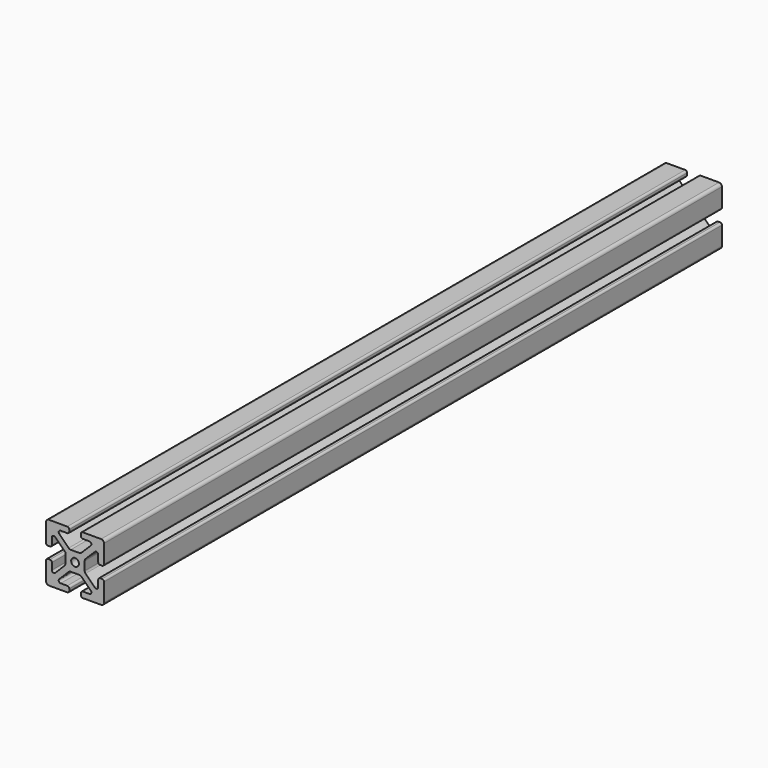
from build123d import *

# Parameters (mm, degrees)
F0_R     = 2
F1_DEPTH = 400


with BuildPart() as f1:
    # F0 (on Front) → F1 (new body)
    with BuildSketch(Plane.XZ):
        with BuildLine():
            ThreePointArc((15, 13.5), (14.56066, 14.56066), (13.5, 15))
            Line((13.5, 15), (4, 15))
            ThreePointArc((4, 15), (3.292893, 14.707107), (3, 14))
            Line((3, 14), (3, 13))
            ThreePointArc((3, 13), (3.292893, 12.292893), (4, 12))
            Line((4, 12), (7.464466, 12))
            ThreePointArc((7.464466, 12), (8.388346, 11.382683), (8.171573, 10.292893))
            Line((8.171573, 10.292893), (3.318019, 5.43934))
            ThreePointArc((3.318019, 5.43934), (2.831384, 5.114181), (2.257359, 5))
            Line((2.257359, 5), (-2.257359, 5))
            ThreePointArc((-2.257359, 5), (-2.831384, 5.114181), (-3.318019, 5.43934))
            Line((-3.318019, 5.43934), (-8.171573, 10.292893))
            ThreePointArc((-8.171573, 10.292893), (-8.388346, 11.382683), (-7.464466, 12))
            Line((-7.464466, 12), (-4, 12))
            ThreePointArc((-4, 12), (-3.292893, 12.292893), (-3, 13))
            Line((-3, 13), (-3, 14))
            ThreePointArc((-3, 14), (-3.292893, 14.707107), (-4, 15))
            Line((-4, 15), (-13.5, 15))
            ThreePointArc((-13.5, 15), (-14.56066, 14.56066), (-15, 13.5))
            Line((-15, 13.5), (-15, 4))
            ThreePointArc((-15, 4), (-14.707107, 3.292893), (-14, 3))
            Line((-14, 3), (-13, 3))
            ThreePointArc((-13, 3), (-12.292893, 3.292893), (-12, 4))
            Line((-12, 4), (-12, 7.464466))
            ThreePointArc((-12, 7.464466), (-11.382683, 8.388346), (-10.292893, 8.171573))
            Line((-10.292893, 8.171573), (-5, 2.87868))
            Line((-5, 2.87868), (-5, -2.257359))
            ThreePointArc((-5, -2.257359), (-5.114181, -2.831384), (-5.43934, -3.318019))
            Line((-5.43934, -3.318019), (-10.292893, -8.171573))
            ThreePointArc((-10.292893, -8.171573), (-11.382683, -8.388346), (-12, -7.464466))
            Line((-12, -7.464466), (-12, -4))
            ThreePointArc((-12, -4), (-12.292893, -3.292893), (-13, -3))
            Line((-13, -3), (-14, -3))
            ThreePointArc((-14, -3), (-14.707107, -3.292893), (-15, -4))
            Line((-15, -4), (-15, -13.5))
            ThreePointArc((-15, -13.5), (-14.56066, -14.56066), (-13.5, -15))
            Line((-13.5, -15), (-4, -15))
            ThreePointArc((-4, -15), (-3.292893, -14.707107), (-3, -14))
            Line((-3, -14), (-3, -13))
            ThreePointArc((-3, -13), (-3.292893, -12.292893), (-4, -12))
            Line((-4, -12), (-7.464466, -12))
            ThreePointArc((-7.464466, -12), (-8.388346, -11.382683), (-8.171573, -10.292893))
            Line((-8.171573, -10.292893), (-3.318019, -5.43934))
            ThreePointArc((-3.318019, -5.43934), (-2.831384, -5.114181), (-2.257359, -5))
            Line((-2.257359, -5), (2.257359, -5))
            ThreePointArc((2.257359, -5), (2.831384, -5.114181), (3.318019, -5.43934))
            Line((3.318019, -5.43934), (8.171573, -10.292893))
            ThreePointArc((8.171573, -10.292893), (8.388346, -11.382683), (7.464466, -12))
            Line((7.464466, -12), (4, -12))
            ThreePointArc((4, -12), (3.292893, -12.292893), (3, -13))
            Line((3, -13), (3, -14))
            ThreePointArc((3, -14), (3.292893, -14.707107), (4, -15))
            Line((4, -15), (13.5, -15))
            ThreePointArc((13.5, -15), (14.56066, -14.56066), (15, -13.5))
            Line((15, -13.5), (15, -4))
            ThreePointArc((15, -4), (14.707107, -3.292893), (14, -3))
            Line((14, -3), (13, -3))
            ThreePointArc((13, -3), (12.292893, -3.292893), (12, -4))
            Line((12, -4), (12, -7.464466))
            ThreePointArc((12, -7.464466), (11.382683, -8.388346), (10.292893, -8.171573))
            Line((10.292893, -8.171573), (5.43934, -3.318019))
            ThreePointArc((5.43934, -3.318019), (5.114181, -2.831384), (5, -2.257359))
            Line((5, -2.257359), (5, 2.257359))
            ThreePointArc((5, 2.257359), (5.114181, 2.831384), (5.43934, 3.318019))
            Line((5.43934, 3.318019), (10.292893, 8.171573))
            ThreePointArc((10.292893, 8.171573), (11.382683, 8.388346), (12, 7.464466))
            Line((12, 7.464466), (12, 4))
            ThreePointArc((12, 4), (12.292893, 3.292893), (13, 3))
            Line((13, 3), (14, 3))
            ThreePointArc((14, 3), (14.707107, 3.292893), (15, 4))
            Line((15, 4), (15, 13.5))
        make_face()
        Circle(F0_R, mode=Mode.SUBTRACT)
    extrude(amount=-F1_DEPTH)


solid = f1.part
